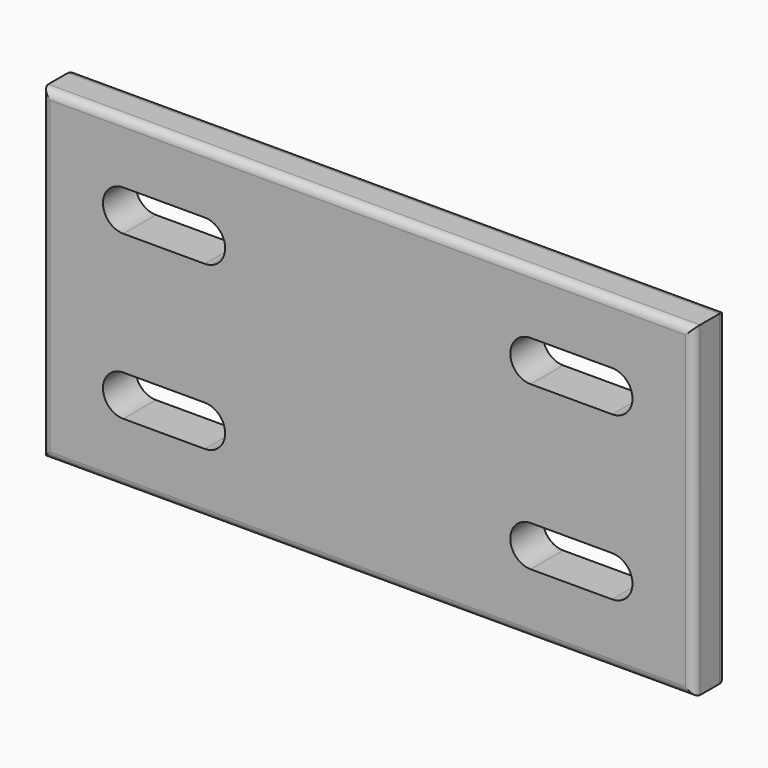
from build123d import *

# Parameters (mm, degrees)
F0_W     = 101.6
F0_H     = 50.8
F1_DEPTH = 6.35
F2_R     = 1.27


with BuildPart() as f1:
    # F0 (on Front) → F1 (new body)
    with BuildSketch(Plane.XZ):
        Rectangle(F0_W, F0_H)
        with BuildLine():
            Line((-25.4, -15.875), (-38.1, -15.875))
            ThreePointArc((-38.1, -15.875), (-41.275, -12.7), (-38.1, -9.525))
            Line((-38.1, -9.525), (-25.4, -9.525))
            ThreePointArc((-25.4, -9.525), (-22.225, -12.7), (-25.4, -15.875))
        make_face(mode=Mode.SUBTRACT)
        with BuildLine():
            Line((25.4, -9.525), (38.1, -9.525))
            ThreePointArc((38.1, -9.525), (41.275, -12.7), (38.1, -15.875))
            Line((38.1, -15.875), (25.4, -15.875))
            ThreePointArc((25.4, -15.875), (22.225, -12.7), (25.4, -9.525))
        make_face(mode=Mode.SUBTRACT)
        with BuildLine():
            Line((-25.4, 9.525), (-38.1, 9.525))
            ThreePointArc((-38.1, 9.525), (-41.275, 12.7), (-38.1, 15.875))
            Line((-38.1, 15.875), (-25.4, 15.875))
            ThreePointArc((-25.4, 15.875), (-22.225, 12.7), (-25.4, 9.525))
        make_face(mode=Mode.SUBTRACT)
        with BuildLine():
            Line((25.4, 15.875), (38.1, 15.875))
            ThreePointArc((38.1, 15.875), (41.275, 12.7), (38.1, 9.525))
            Line((38.1, 9.525), (25.4, 9.525))
            ThreePointArc((25.4, 9.525), (22.225, 12.7), (25.4, 15.875))
        make_face(mode=Mode.SUBTRACT)
    extrude(amount=F1_DEPTH)

    # F2
    f2_edges = [f1.edges().sort_by_distance(p)[0] for p in [
        (0, 0, -25.4),
        (-50.8, 0, 0),
        (50.8, 0, 0),
        (0, 0, 25.4),
        (0, -6.35, 25.4),
        (-50.8, -6.35, 0),
        (50.8, -6.35, 0),
        (0, -6.35, -25.4),
    ]]
    fillet(f2_edges, radius=F2_R)


solid = f1.part
